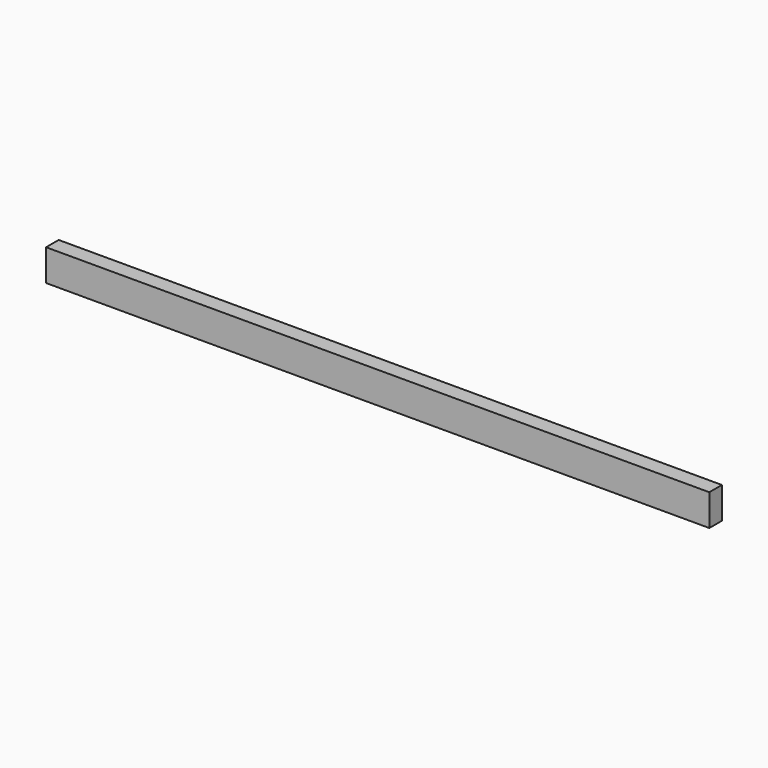
from build123d import *

# Parameters (mm, degrees)
SKETCH_W  = 801.55
SKETCH_H  = 38.1
PAD_DEPTH = 19.05


with BuildPart() as part:
    # Sketch → Pad (new body)
    with BuildSketch(Plane.XZ):
        with Locations((400.775, 19.05)):
            Rectangle(SKETCH_W, SKETCH_H)
    extrude(amount=PAD_DEPTH)


solid = part.part
